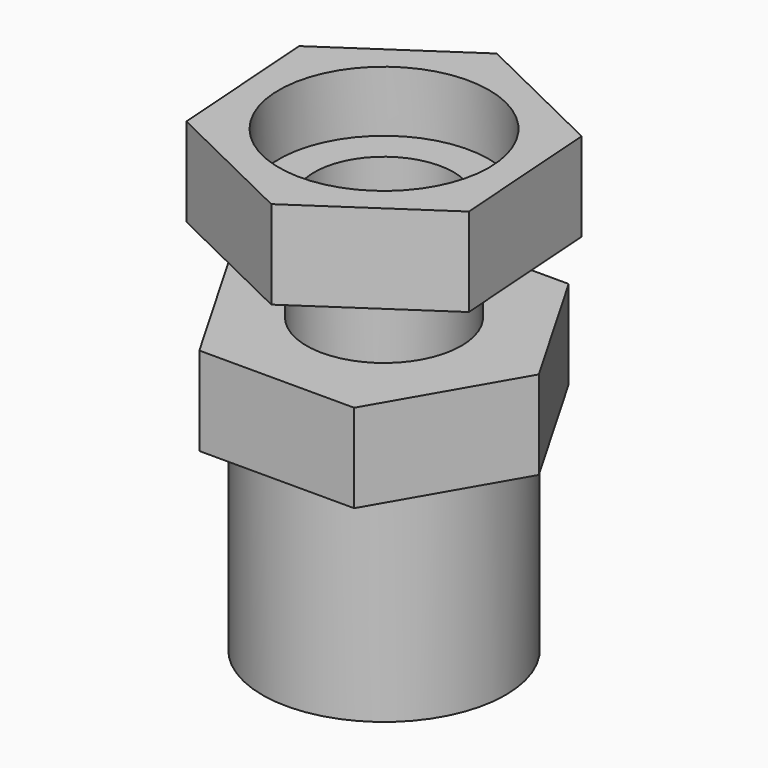
from build123d import *

# Parameters (mm, degrees)
CYLINDER008_R                    = 6.3
CYLINDER008_DEPTH                = 50
CYLINDER009_R                    = 9.5
CYLINDER009_DEPTH                = 13
CYLINDER007_R                    = 9.5
CYLINDER007_DEPTH                = 20
CYLINDER006_R                    = 7
CYLINDER006_DEPTH                = 30
LINEAREXTRUDE002_DEPTH           = 8
LINEAREXTRUDE003_DEPTH           = 8
LINEAREXTRUDE003_PLACEMENT_ANGLE = 34
CYLINDER005_R                    = 11
CYLINDER005_DEPTH                = 25
CYLINDER003_R                    = 6.3
CYLINDER003_DEPTH                = 50
CYLINDER004_R                    = 9.5
CYLINDER004_DEPTH                = 13
CYLINDER002_R                    = 9.5
CYLINDER002_DEPTH                = 20
CYLINDER001_R                    = 7
CYLINDER001_DEPTH                = 30
LINEAREXTRUDE_DEPTH              = 8
LINEAREXTRUDE001_DEPTH           = 8
LINEAREXTRUDE001_PLACEMENT_ANGLE = 34
CYLINDER_R                       = 11
CYLINDER_DEPTH                   = 25


with BuildPart() as cylinder008:
    # cylinder008 → cylinder008 (new body)
    with BuildSketch(Plane.XY.offset(-15)):
        Circle(CYLINDER008_R)
    extrude(amount=CYLINDER008_DEPTH)


with BuildPart() as cylinder009:
    # cylinder009 → cylinder009 (new body)
    with BuildSketch(Plane.XY.offset(13.5)):
        Circle(CYLINDER009_R)
    extrude(amount=CYLINDER009_DEPTH)


with BuildPart() as group003:
    # cylinder007 → cylinder007 (new body)
    with BuildSketch(Plane.XY.offset(-30)):
        Circle(CYLINDER007_R)
    extrude(amount=CYLINDER007_DEPTH)

    # Group003: union cylinder008, cylinder009
    add(cylinder008.part)
    add(cylinder009.part)


with BuildPart() as cylinder006:
    # cylinder006 → cylinder006 (new body)
    with BuildSketch(Plane.XY.offset(-15)):
        Circle(CYLINDER006_R)
    extrude(amount=CYLINDER006_DEPTH)


with BuildPart() as linearextrude002:
    # RefineLinearExtrude002 → LinearExtrude002 (new body)
    with BuildSketch(Plane(origin=(0, 0, 0), x_dir=(0, -1, 0), z_dir=(0, 0, -1))):
        Polygon((-12.124356, -7), (0, -14), (12.124356, -7), (12.124356, 7), (0, 14), (-12.124356, 7), align=None)
    extrude(amount=-LINEAREXTRUDE002_DEPTH)


with BuildPart() as linearextrude002_1:
    # LinearExtrude002 placement: moved
    add(linearextrude002.part.moved(Location((0, 0, -4))))


with BuildPart() as linearextrude003:
    # RefineLinearExtrude003 → LinearExtrude003 (new body)
    with BuildSketch(Plane(origin=(0, 0, 0), x_dir=(0, -1, 0), z_dir=(0, 0, -1))):
        Polygon((-12.124356, -7), (0, -14), (12.124356, -7), (12.124356, 7), (0, 14), (-12.124356, 7), align=None)
    extrude(amount=-LINEAREXTRUDE003_DEPTH)


with BuildPart() as linearextrude003_1:
    # LinearExtrude003 placement: moved
    add(linearextrude003.part.moved(Location((0, 0, 11))).rotate(Axis((0, 0, 11), (0, 0, 1)), LINEAREXTRUDE003_PLACEMENT_ANGLE))


with BuildPart() as difference001:
    # cylinder005 → cylinder005 (new body)
    with BuildSketch(Plane.XY.offset(-22.5)):
        Circle(CYLINDER005_R)
    extrude(amount=CYLINDER005_DEPTH)

    # Group002: union cylinder006, LinearExtrude002, LinearExtrude003
    add(cylinder006.part)
    add(linearextrude002_1.part)
    add(linearextrude003_1.part)

    # difference001: cut Group003
    add(group003.part, mode=Mode.SUBTRACT)


with BuildPart() as cylinder003:
    # cylinder003 → cylinder003 (new body)
    with BuildSketch(Plane.XY.offset(-15)):
        Circle(CYLINDER003_R)
    extrude(amount=CYLINDER003_DEPTH)


with BuildPart() as cylinder004:
    # cylinder004 → cylinder004 (new body)
    with BuildSketch(Plane.XY.offset(13.5)):
        Circle(CYLINDER004_R)
    extrude(amount=CYLINDER004_DEPTH)


with BuildPart() as group001:
    # cylinder002 → cylinder002 (new body)
    with BuildSketch(Plane.XY.offset(-30)):
        Circle(CYLINDER002_R)
    extrude(amount=CYLINDER002_DEPTH)

    # Group001: union cylinder003, cylinder004
    add(cylinder003.part)
    add(cylinder004.part)


with BuildPart() as cylinder001:
    # cylinder001 → cylinder001 (new body)
    with BuildSketch(Plane.XY.offset(-15)):
        Circle(CYLINDER001_R)
    extrude(amount=CYLINDER001_DEPTH)


with BuildPart() as linearextrude:
    # RefineLinearExtrude → LinearExtrude (new body)
    with BuildSketch(Plane(origin=(0, 0, 0), x_dir=(0, -1, 0), z_dir=(0, 0, -1))):
        Polygon((-12.124356, -7), (0, -14), (12.124356, -7), (12.124356, 7), (0, 14), (-12.124356, 7), align=None)
    extrude(amount=-LINEAREXTRUDE_DEPTH)


with BuildPart() as linearextrude_1:
    # LinearExtrude placement: moved
    add(linearextrude.part.moved(Location((0, 0, -4))))


with BuildPart() as linearextrude001:
    # RefineLinearExtrude001 → LinearExtrude001 (new body)
    with BuildSketch(Plane(origin=(0, 0, 0), x_dir=(0, -1, 0), z_dir=(0, 0, -1))):
        Polygon((-12.124356, -7), (0, -14), (12.124356, -7), (12.124356, 7), (0, 14), (-12.124356, 7), align=None)
    extrude(amount=-LINEAREXTRUDE001_DEPTH)


with BuildPart() as linearextrude001_1:
    # LinearExtrude001 placement: moved
    add(linearextrude001.part.moved(Location((0, 0, 11))).rotate(Axis((0, 0, 11), (0, 0, 1)), LINEAREXTRUDE001_PLACEMENT_ANGLE))


with BuildPart() as group004:
    # cylinder → cylinder (new body)
    with BuildSketch(Plane.XY.offset(-22.5)):
        Circle(CYLINDER_R)
    extrude(amount=CYLINDER_DEPTH)

    # Group: union cylinder001, LinearExtrude, LinearExtrude001
    add(cylinder001.part)
    add(linearextrude_1.part)
    add(linearextrude001_1.part)

    # difference: cut Group001
    add(group001.part, mode=Mode.SUBTRACT)

    # Group004: union difference001
    add(difference001.part)


solid = group004.part
